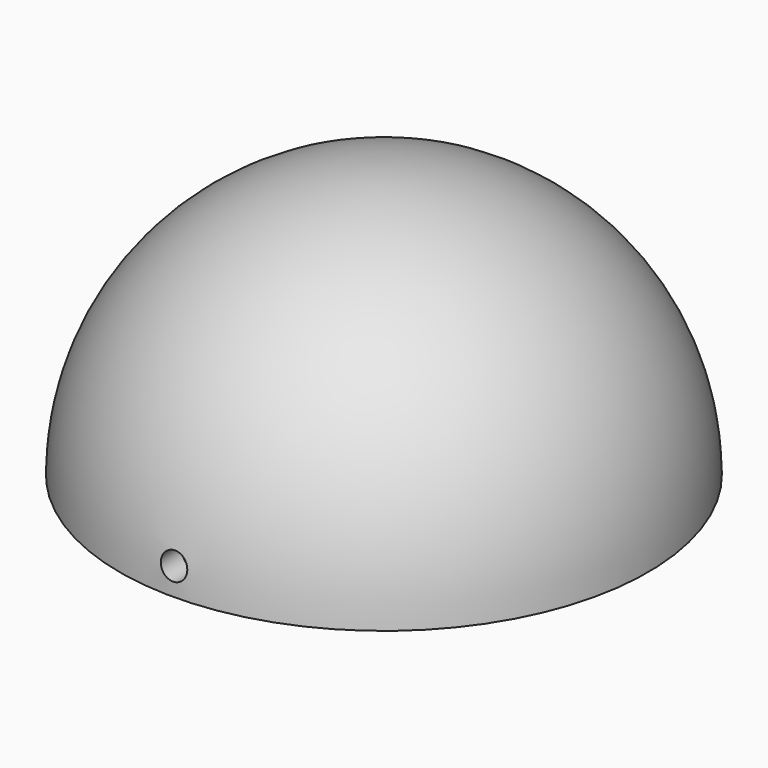
from build123d import *

# Parameters (mm, degrees)
F2_R     = 2.5
F3_DEPTH = 50


with BuildPart() as f1:
    # F0 (on Front) → F1 (revolve)
    with BuildSketch(Plane.XZ):
        with BuildLine():
            Line((0, 45), (0, 50))
            ThreePointArc((0, 50), (-35.3553390593, 35.3553390593), (-50, 0))
            Line((-50, 0), (-45, 0))
            ThreePointArc((-45, 0), (-31.8198051534, 31.8198051534), (0, 45))
        make_face()
    revolve(axis=Axis((0, 0, 47.5), (0, 0, 1)))

    # F2 (on Front) → F3 (cut, symmetric)
    with BuildSketch(Plane.XZ):
        with Locations((0, 5)):
            Circle(F2_R)
    extrude(amount=F3_DEPTH, both=True, mode=Mode.SUBTRACT)


solid = f1.part
